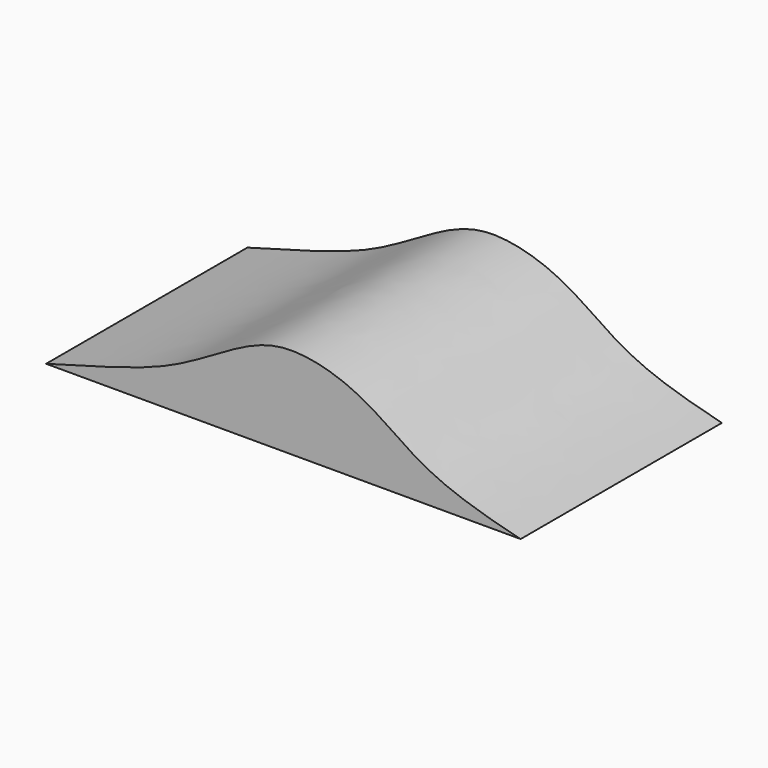
from build123d import *

# Parameters (mm, degrees)
F1_DEPTH = 3352.8


with BuildPart() as f1:
    # F0 (on Front) → F1 (new body)
    with BuildSketch(Plane.XZ):
        with BuildLine():
            add(Edge.make_bspline(
                [(0, 0), (973.5209816043, 267.3893112519), (1673.5658828155, 464.6325542904), (2585.3897993581, 1064.427921036), (3228.6179180434, 1290.0480904089), (4087.929356349, 1082.6739332622), (4836.9998787088, 546.8020356772), (5359.1532476592, 234.9544862505), (6323.7446568204, 0)],
                knots=[0, 0, 0, 0, 0.2189091116, 0.3732422796, 0.5030204636, 0.649065751, 0.7913143766, 1, 1, 1, 1], degree=3))
            Line((0, 0), (6323.7446568204, 0))
        make_face()
    extrude(amount=F1_DEPTH)


solid = f1.part
